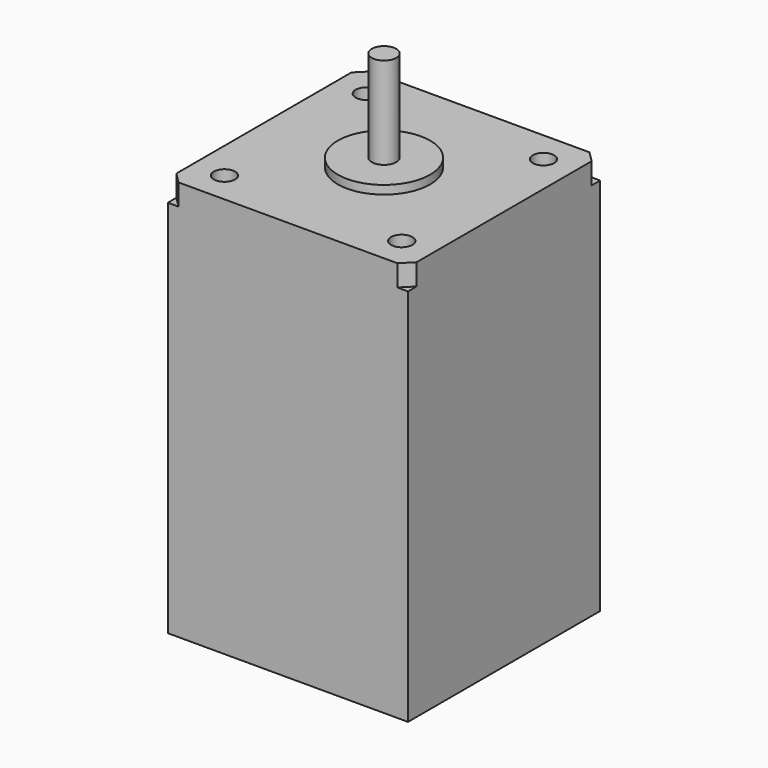
from build123d import *

# Parameters (mm, degrees)
F0_W     = 57.15
F0_H     = 57.15
F0_R     = 2.54
F1_DEPTH = 5.08
F2_SIZE  = 2.54
F3_W     = 57.15
F3_H     = 57.15
F4_DEPTH = 90.17
F5_R     = 10.9855
F6_DEPTH = 2.032
F7_R     = 2.921
F8_DEPTH = 21.844


with BuildPart() as f1:
    # F0 (on Top) → F1 (new body)
    with BuildSketch(Plane.XY):
        Rectangle(F0_W, F0_H)
        with Locations((-21.082, -21.082)):
            Circle(F0_R, mode=Mode.SUBTRACT)
        with Locations((21.082, -21.082)):
            Circle(F0_R, mode=Mode.SUBTRACT)
        with Locations((-21.082, 21.082)):
            Circle(F0_R, mode=Mode.SUBTRACT)
        with Locations((21.082, 21.082)):
            Circle(F0_R, mode=Mode.SUBTRACT)
    extrude(amount=F1_DEPTH)

    # F2
    f2_edges = [f1.edges().sort_by_distance(p)[0] for p in [
        (-28.575, 28.575, 2.54),
        (28.575, 28.575, 2.54),
        (28.575, -28.575, 2.54),
        (-28.575, -28.575, 2.54),
    ]]
    chamfer(f2_edges, length=F2_SIZE)

    # F3 (on face) → F4 (join)
    with BuildSketch(Plane(origin=(0, 0, 0), x_dir=(1, 0, 0), z_dir=(0, 0, -1))):
        Rectangle(F3_W, F3_H)
    extrude(amount=F4_DEPTH)

    # F5 (on face) → F6 (join)
    with BuildSketch(Plane.XY.offset(5.08)):
        Circle(F5_R)
    extrude(amount=F6_DEPTH)

    # F7 (on face) → F8 (join)
    with BuildSketch(Plane.XY.offset(7.112)):
        Circle(F7_R)
    extrude(amount=F8_DEPTH)


solid = f1.part
